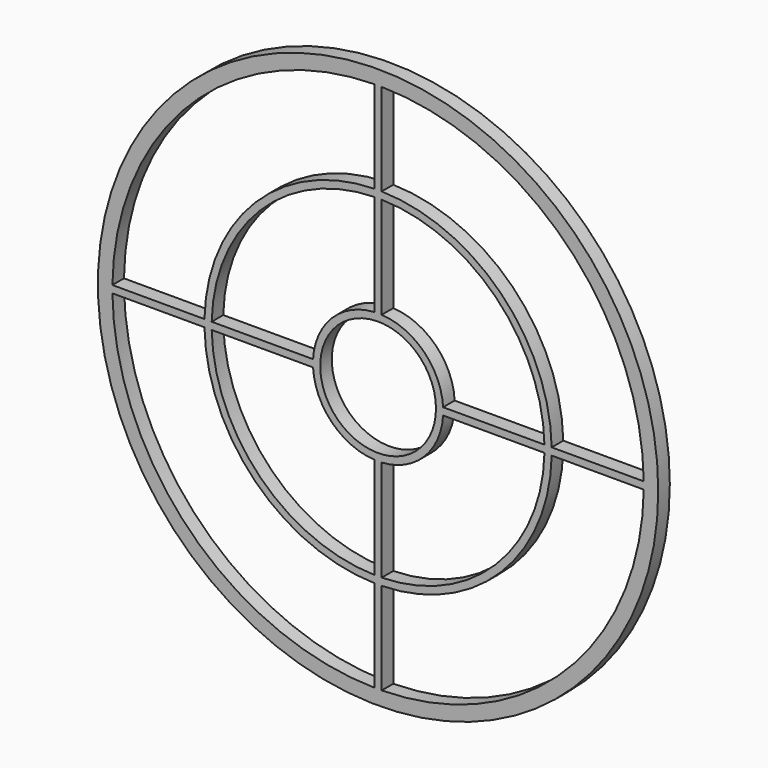
from build123d import *

# Parameters (mm, degrees)
F0_R     = 122.936
F0_R_2   = 25.4
F1_DEPTH = 6.35


with BuildPart() as f1:
    # F0 (on Front) → F1 (new body)
    with BuildSketch(Plane.XZ):
        Circle(F0_R)
        with BuildLine():
            ThreePointArc((-1.588113, -116.575183), (-82.435584, -82.441918), (-116.575061, -1.597068))
            Line((-116.575061, -1.597068), (-76.183462, -1.5875))
            ThreePointArc((-76.183462, -1.5875), (-53.881753, -53.88132), (-1.588113, -76.183449))
            Line((-1.588113, -76.183449), (-1.588113, -116.575183))
        make_face(mode=Mode.SUBTRACT)
        with BuildLine():
            ThreePointArc((-1.588113, -73.007729), (-51.636689, -51.636256), (-73.007743, -1.5875))
            Line((-73.007743, -1.5875), (-28.530869, -1.5875))
            ThreePointArc((-28.530869, -1.5875), (-20.205793, -20.205359), (-1.588113, -28.530835))
            Line((-1.588113, -28.530835), (-1.588113, -73.007729))
        make_face(mode=Mode.SUBTRACT)
        with BuildLine():
            ThreePointArc((116.575061, -1.597068), (82.435151, -82.442351), (1.586887, -116.5752))
            Line((1.586887, -116.5752), (1.586887, -76.183475))
            ThreePointArc((1.586887, -76.183475), (53.88132, -53.881753), (76.183462, -1.5875))
            Line((76.183462, -1.5875), (116.575061, -1.597068))
        make_face(mode=Mode.SUBTRACT)
        with BuildLine():
            Line((1.586887, -73.007756), (1.586887, -28.530903))
            ThreePointArc((1.586887, -28.530903), (20.205359, -20.205793), (28.530869, -1.5875))
            Line((28.530869, -1.5875), (73.007743, -1.5875))
            ThreePointArc((73.007743, -1.5875), (51.636256, -51.636689), (1.586887, -73.007756))
        make_face(mode=Mode.SUBTRACT)
        with BuildLine():
            ThreePointArc((-1.588113, 28.530835), (-20.205793, 20.205359), (-28.530869, 1.5875))
            Line((-28.530869, 1.5875), (-73.007743, 1.5875))
            ThreePointArc((-73.007743, 1.5875), (-51.636689, 51.636256), (-1.588113, 73.007729))
            Line((-1.588113, 73.007729), (-1.588113, 28.530835))
        make_face(mode=Mode.SUBTRACT)
        with BuildLine():
            ThreePointArc((-1.588113, 76.183449), (-53.881753, 53.88132), (-76.183462, 1.5875))
            Line((-76.183462, 1.5875), (-116.575061, 1.597068))
            ThreePointArc((-116.575061, 1.597068), (-82.435584, 82.441918), (-1.588113, 116.575183))
            Line((-1.588113, 116.575183), (-1.588113, 76.183449))
        make_face(mode=Mode.SUBTRACT)
        Circle(F0_R_2, mode=Mode.SUBTRACT)
        with BuildLine():
            ThreePointArc((28.530869, 1.5875), (20.205359, 20.205793), (1.586887, 28.530903))
            Line((1.586887, 28.530903), (1.586887, 73.007756))
            ThreePointArc((1.586887, 73.007756), (51.636256, 51.636689), (73.007743, 1.5875))
            Line((73.007743, 1.5875), (28.530869, 1.5875))
        make_face(mode=Mode.SUBTRACT)
        with BuildLine():
            Line((116.575061, 1.597068), (76.183462, 1.5875))
            ThreePointArc((76.183462, 1.5875), (53.88132, 53.881753), (1.586887, 76.183475))
            Line((1.586887, 76.183475), (1.586887, 116.5752))
            ThreePointArc((1.586887, 116.5752), (82.435151, 82.442351), (116.575061, 1.597068))
        make_face(mode=Mode.SUBTRACT)
    extrude(amount=F1_DEPTH)


solid = f1.part
